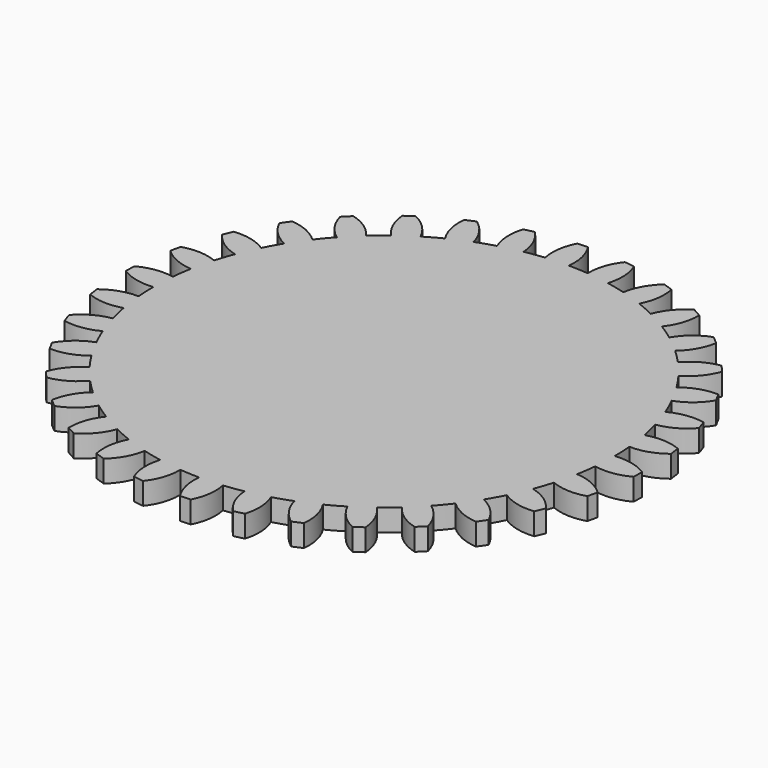
from build123d import *

# Parameters (mm, degrees)
F1_DEPTH = 6.35


with BuildPart() as f1:
    # F0 (on Top) → F1 (new body)
    with BuildSketch(Plane.XY):
        with BuildLine():
            ThreePointArc((66.113762, -6.381201), (66.344146, -3.194296), (66.421, 0))
            ThreePointArc((66.421, 0), (66.420879, 0.126818), (66.420516, 0.253635))
            ThreePointArc((66.420516, 0.253635), (66.35013, 3.067483), (66.160592, 5.875823))
            ThreePointArc((66.160592, 5.875823), (65.784061, 9.176416), (65.242975, 12.454054))
            ThreePointArc((65.242975, 12.454054), (64.656745, 15.207058), (63.954403, 17.932753))
            ThreePointArc((63.954403, 17.932753), (62.9778, 21.107959), (61.843663, 24.230365))
            ThreePointArc((61.843663, 24.230365), (60.761551, 26.828775), (59.570323, 29.379004))
            ThreePointArc((59.570323, 29.379004), (58.026906, 32.320696), (56.338339, 35.181541))
            ThreePointArc((56.338339, 35.181541), (54.797196, 37.53687), (53.157647, 39.824789))
            ThreePointArc((53.157647, 39.824789), (51.099975, 42.432791), (48.914481, 44.934651))
            ThreePointArc((48.914481, 44.934651), (46.966788, 46.966691), (44.934751, 48.914388))
            ThreePointArc((44.934751, 48.914388), (42.432896, 51.099888), (39.824898, 53.157565))
            ThreePointArc((39.824898, 53.157565), (37.536982, 54.797119), (35.181656, 56.338267))
            ThreePointArc((35.181656, 56.338267), (32.320816, 58.02684), (29.379127, 59.570262))
            ThreePointArc((29.379127, 59.570262), (26.828899, 60.761496), (24.230492, 61.843613))
            ThreePointArc((24.230492, 61.843613), (21.108089, 62.977757), (17.932884, 63.954366))
            ThreePointArc((17.932884, 63.954366), (15.207191, 64.656713), (12.454188, 65.242949))
            ThreePointArc((12.454188, 65.242949), (9.176551, 65.784042), (5.875959, 66.16058))
            ThreePointArc((5.875959, 66.16058), (3.06762, 66.350124), (0.253771, 66.420515))
            ThreePointArc((0.253771, 66.420515), (-3.067483, 66.35013), (-6.381065, 66.113775))
            ThreePointArc((-6.381065, 66.113775), (-9.176416, 65.784061), (-11.955287, 65.33621))
            ThreePointArc((-11.955287, 65.33621), (-15.207058, 64.656745), (-18.42079, 63.815545))
            ThreePointArc((-18.42079, 63.815545), (-21.107959, 62.9778), (-23.757223, 62.026959))
            ThreePointArc((-23.757223, 62.026959), (-26.828775, 60.761551), (-29.833216, 59.344153))
            ThreePointArc((-29.833216, 59.344153), (-32.320696, 58.026906), (-34.750135, 56.605454))
            ThreePointArc((-34.750135, 56.605454), (-37.53687, 54.797196), (-40.229708, 52.851867))
            ThreePointArc((-40.229708, 52.851867), (-42.432791, 51.099975), (-44.559672, 49.256318))
            ThreePointArc((-44.559672, 49.256318), (-46.966691, 46.966788), (-49.256226, 44.559774))
            ThreePointArc((-49.256226, 44.559774), (-51.099888, 42.432896), (-52.851784, 40.229817))
            ThreePointArc((-52.851784, 40.229817), (-54.797119, 37.536982), (-56.605382, 34.750251))
            ThreePointArc((-56.605382, 34.750251), (-58.02684, 32.320816), (-59.344091, 29.833338))
            ThreePointArc((-59.344091, 29.833338), (-60.761496, 26.828899), (-62.02691, 23.75735))
            ThreePointArc((-62.02691, 23.75735), (-62.977757, 21.108089), (-63.815507, 18.420921))
            ThreePointArc((-63.815507, 18.420921), (-64.656713, 15.207191), (-65.336186, 11.955421))
            ThreePointArc((-65.336186, 11.955421), (-65.784042, 9.176551), (-66.113762, 6.381201))
            ThreePointArc((-66.113762, 6.381201), (-66.350124, 3.06762), (-66.420516, -0.253635))
            ThreePointArc((-66.420516, -0.253635), (-66.35013, -3.067483), (-66.160592, -5.875823))
            ThreePointArc((-66.160592, -5.875823), (-65.784061, -9.176416), (-65.242975, -12.454054))
            ThreePointArc((-65.242975, -12.454054), (-64.656745, -15.207058), (-63.954403, -17.932753))
            ThreePointArc((-63.954403, -17.932753), (-62.9778, -21.107959), (-61.843663, -24.230365))
            ThreePointArc((-61.843663, -24.230365), (-60.761551, -26.828775), (-59.570323, -29.379004))
            ThreePointArc((-59.570323, -29.379004), (-58.026906, -32.320696), (-56.338339, -35.181541))
            ThreePointArc((-56.338339, -35.181541), (-54.797196, -37.53687), (-53.157647, -39.824789))
            ThreePointArc((-53.157647, -39.824789), (-51.099975, -42.432791), (-48.914481, -44.934651))
            ThreePointArc((-48.914481, -44.934651), (-46.966788, -46.966691), (-44.934751, -48.914388))
            ThreePointArc((-44.934751, -48.914388), (-42.432896, -51.099888), (-39.824898, -53.157565))
            ThreePointArc((-39.824898, -53.157565), (-37.536982, -54.797119), (-35.181656, -56.338267))
            ThreePointArc((-35.181656, -56.338267), (-32.320816, -58.02684), (-29.379127, -59.570262))
            ThreePointArc((-29.379127, -59.570262), (-26.828899, -60.761496), (-24.230492, -61.843613))
            ThreePointArc((-24.230492, -61.843613), (-21.108089, -62.977757), (-17.932884, -63.954366))
            ThreePointArc((-17.932884, -63.954366), (-15.207191, -64.656713), (-12.454188, -65.242949))
            ThreePointArc((-12.454188, -65.242949), (-9.176551, -65.784042), (-5.875959, -66.16058))
            ThreePointArc((-5.875959, -66.16058), (-3.06762, -66.350124), (-0.253771, -66.420515))
            ThreePointArc((-0.253771, -66.420515), (3.067483, -66.35013), (6.381065, -66.113775))
            ThreePointArc((6.381065, -66.113775), (9.176416, -65.784061), (11.955287, -65.33621))
            ThreePointArc((11.955287, -65.33621), (15.207058, -64.656745), (18.42079, -63.815545))
            ThreePointArc((18.42079, -63.815545), (21.107959, -62.9778), (23.757223, -62.026959))
            ThreePointArc((23.757223, -62.026959), (26.828775, -60.761551), (29.833216, -59.344153))
            ThreePointArc((29.833216, -59.344153), (32.320696, -58.026906), (34.750135, -56.605454))
            ThreePointArc((34.750135, -56.605454), (37.53687, -54.797196), (40.229708, -52.851867))
            ThreePointArc((40.229708, -52.851867), (42.432791, -51.099975), (44.559672, -49.256318))
            ThreePointArc((44.559672, -49.256318), (46.966691, -46.966788), (49.256226, -44.559774))
            ThreePointArc((49.256226, -44.559774), (51.099888, -42.432896), (52.851784, -40.229817))
            ThreePointArc((52.851784, -40.229817), (54.797119, -37.536982), (56.605382, -34.750251))
            ThreePointArc((56.605382, -34.750251), (58.02684, -32.320816), (59.344091, -29.833338))
            ThreePointArc((59.344091, -29.833338), (60.761496, -26.828899), (62.02691, -23.75735))
            ThreePointArc((62.02691, -23.75735), (62.977757, -21.108089), (63.815507, -18.420921))
            ThreePointArc((63.815507, -18.420921), (64.656713, -15.207191), (65.336186, -11.955421))
            ThreePointArc((65.336186, -11.955421), (65.784042, -9.176551), (66.113762, -6.381201))
        make_face()
        with BuildLine():
            ThreePointArc((66.420516, 0.253635), (66.420879, 0.126818), (66.421, 0))
            ThreePointArc((66.421, 0), (66.344146, -3.194296), (66.113762, -6.381201))
            ThreePointArc((66.113762, -6.381201), (71.195059, -6.568769), (76.035102, -5.010321))
            Line((76.035102, -5.010321), (76.173039, -2.026842))
            ThreePointArc((76.173039, -2.026842), (71.497443, -0.02845), (66.420516, 0.253635))
        make_face()
        with BuildLine():
            ThreePointArc((65.242975, 12.454054), (65.784061, 9.176416), (66.160592, 5.875823))
            ThreePointArc((66.160592, 5.875823), (71.189836, 6.625135), (75.661104, 9.046402))
            Line((75.661104, 9.046402), (75.24848, 12.004428))
            ThreePointArc((75.24848, 12.004428), (70.285291, 13.109655), (65.242975, 12.454054))
        make_face()
        with BuildLine():
            ThreePointArc((74.503617, -15.989091), (70.274836, -13.165587), (65.336186, -11.955421))
            ThreePointArc((65.336186, -11.955421), (64.656713, -15.207191), (63.815507, -18.420921))
            ThreePointArc((63.815507, -18.420921), (68.77582, -19.538981), (73.819815, -18.896424))
            Line((73.819815, -18.896424), (74.503617, -15.989091))
        make_face()
        with BuildLine():
            ThreePointArc((61.843663, 24.230365), (62.9778, 21.107959), (63.954403, 17.932753))
            ThreePointArc((63.954403, 17.932753), (68.760329, 19.593427), (72.710558, 22.795061))
            Line((72.710558, 22.795061), (71.761424, 25.626901))
            ThreePointArc((71.761424, 25.626901), (66.679658, 25.801326), (61.843663, 24.230365))
        make_face()
        with BuildLine():
            ThreePointArc((70.297064, -29.40685), (66.659103, -25.854385), (62.02691, -23.75735))
            ThreePointArc((62.02691, -23.75735), (60.761496, -26.828899), (59.344091, -29.833338))
            ThreePointArc((59.344091, -29.833338), (64.014503, -31.843817), (69.090684, -32.139032))
            Line((69.090684, -32.139032), (70.297064, -29.40685))
        make_face()
        with BuildLine():
            ThreePointArc((56.338339, 35.181541), (58.026906, 32.320696), (59.570323, 29.379004))
            ThreePointArc((59.570323, 29.379004), (63.989271, 31.894489), (67.283941, 35.767462))
            Line((67.283941, 35.767462), (65.830618, 38.376682))
            ThreePointArc((65.830618, 38.376682), (60.803329, 37.614365), (56.338339, 35.181541))
        make_face()
        with BuildLine():
            ThreePointArc((63.696628, -41.823194), (60.773374, -37.662743), (56.605382, -34.750251))
            ThreePointArc((56.605382, -34.750251), (54.797119, -37.536982), (52.851784, -40.229817))
            ThreePointArc((52.851784, -40.229817), (57.073248, -43.064249), (62.008752, -44.287184))
            Line((62.008752, -44.287184), (63.696628, -41.823194))
        make_face()
        with BuildLine():
            ThreePointArc((48.914481, 44.934651), (51.099975, 42.432791), (53.157647, 39.824789))
            ThreePointArc((53.157647, 39.824789), (57.039135, 43.109423), (59.56605, 47.521845))
            Line((59.56605, 47.521845), (57.65803, 49.81959))
            ThreePointArc((57.65803, 49.81959), (52.856415, 48.146491), (48.914481, 44.934651))
        make_face()
        with BuildLine():
            ThreePointArc((54.92708, -52.815299), (52.818081, -48.188541), (49.256226, -44.559774))
            ThreePointArc((49.256226, -44.559774), (46.966691, -46.966788), (44.559672, -49.256318))
            ThreePointArc((44.559672, -49.256318), (48.188433, -52.81818), (52.815186, -54.927189))
            Line((52.815186, -54.927189), (54.92708, -52.815299))
        make_face()
        with BuildLine():
            ThreePointArc((39.824898, 53.157565), (42.432896, 51.099888), (44.934751, 48.914388))
            ThreePointArc((44.934751, 48.914388), (48.1466, 52.856316), (49.819709, 57.657928))
            Line((49.819709, 57.657928), (47.521967, 59.565952))
            ThreePointArc((47.521967, 59.565952), (43.10954, 57.039046), (39.824898, 53.157565))
        make_face()
        with BuildLine():
            ThreePointArc((44.287057, -62.008843), (43.064132, -57.073337), (40.229708, -52.851867))
            ThreePointArc((40.229708, -52.851867), (37.53687, -54.797196), (34.750135, -56.605454))
            ThreePointArc((34.750135, -56.605454), (37.662618, -60.773452), (41.823063, -63.696714))
            Line((41.823063, -63.696714), (44.287057, -62.008843))
        make_face()
        with BuildLine():
            ThreePointArc((29.379127, 59.570262), (32.320816, 58.02684), (35.181656, 56.338267))
            ThreePointArc((35.181656, 56.338267), (37.61449, 60.803252), (38.376817, 65.830539))
            Line((38.376817, 65.830539), (35.7676, 67.283867))
            ThreePointArc((35.7676, 67.283867), (31.894621, 63.989205), (29.379127, 59.570262))
        make_face()
        with BuildLine():
            ThreePointArc((32.13889, -69.09075), (31.843685, -64.014568), (29.833216, -59.344153))
            ThreePointArc((29.833216, -59.344153), (26.828775, -60.761551), (23.757223, -62.026959))
            ThreePointArc((23.757223, -62.026959), (25.854248, -66.659156), (29.406705, -70.297124))
            Line((29.406705, -70.297124), (32.13889, -69.09075))
        make_face()
        with BuildLine():
            ThreePointArc((17.932884, 63.954366), (21.108089, 62.977757), (24.230492, 61.843613))
            ThreePointArc((24.230492, 61.843613), (25.801463, 66.679605), (25.627049, 71.761371))
            Line((25.627049, 71.761371), (22.795211, 72.710511))
            ThreePointArc((22.795211, 72.710511), (19.593568, 68.760289), (17.932884, 63.954366))
        make_face()
        with BuildLine():
            ThreePointArc((18.896273, -73.819854), (19.53884, -68.77586), (18.42079, -63.815545))
            ThreePointArc((18.42079, -63.815545), (15.207058, -64.656745), (11.955287, -65.33621))
            ThreePointArc((11.955287, -65.33621), (13.165442, -70.274863), (15.988938, -74.50365))
            Line((15.988938, -74.50365), (18.896273, -73.819854))
        make_face()
        with BuildLine():
            ThreePointArc((5.875959, 66.16058), (9.176551, 65.784042), (12.454188, 65.242949))
            ThreePointArc((12.454188, 65.242949), (13.109799, 70.285264), (12.004582, 75.248455))
            Line((12.004582, 75.248455), (9.046558, 75.661085))
            ThreePointArc((9.046558, 75.661085), (6.625281, 71.189823), (5.875959, 66.16058))
        make_face()
        with BuildLine():
            ThreePointArc((5.010165, -76.035112), (6.568623, -71.195073), (6.381065, -66.113775))
            ThreePointArc((6.381065, -66.113775), (3.067483, -66.35013), (-0.253771, -66.420515))
            ThreePointArc((-0.253771, -66.420515), (0.028304, -71.497443), (2.026686, -76.173043))
            Line((2.026686, -76.173043), (5.010165, -76.035112))
        make_face()
        with BuildLine():
            ThreePointArc((-6.381065, 66.113775), (-3.067483, 66.35013), (0.253771, 66.420515))
            ThreePointArc((0.253771, 66.420515), (-0.028304, 71.497443), (-2.026686, 76.173043))
            Line((-2.026686, 76.173043), (-5.010165, 76.035112))
            ThreePointArc((-5.010165, 76.035112), (-6.568623, 71.195073), (-6.381065, 66.113775))
        make_face()
        with BuildLine():
            ThreePointArc((-9.046558, -75.661085), (-6.625281, -71.189823), (-5.875959, -66.16058))
            ThreePointArc((-5.875959, -66.16058), (-9.176551, -65.784042), (-12.454188, -65.242949))
            ThreePointArc((-12.454188, -65.242949), (-13.109799, -70.285264), (-12.004582, -75.248455))
            Line((-12.004582, -75.248455), (-9.046558, -75.661085))
        make_face()
        with BuildLine():
            ThreePointArc((-18.42079, 63.815545), (-15.207058, 64.656745), (-11.955287, 65.33621))
            ThreePointArc((-11.955287, 65.33621), (-13.165442, 70.274863), (-15.988938, 74.50365))
            Line((-15.988938, 74.50365), (-18.896273, 73.819854))
            ThreePointArc((-18.896273, 73.819854), (-19.53884, 68.77586), (-18.42079, 63.815545))
        make_face()
        with BuildLine():
            ThreePointArc((-22.795211, -72.710511), (-19.593568, -68.760289), (-17.932884, -63.954366))
            ThreePointArc((-17.932884, -63.954366), (-21.108089, -62.977757), (-24.230492, -61.843613))
            ThreePointArc((-24.230492, -61.843613), (-25.801463, -66.679605), (-25.627049, -71.761371))
            Line((-25.627049, -71.761371), (-22.795211, -72.710511))
        make_face()
        with BuildLine():
            ThreePointArc((-29.833216, 59.344153), (-26.828775, 60.761551), (-23.757223, 62.026959))
            ThreePointArc((-23.757223, 62.026959), (-25.854248, 66.659156), (-29.406705, 70.297124))
            Line((-29.406705, 70.297124), (-32.13889, 69.09075))
            ThreePointArc((-32.13889, 69.09075), (-31.843685, 64.014568), (-29.833216, 59.344153))
        make_face()
        with BuildLine():
            ThreePointArc((-35.7676, -67.283867), (-31.894621, -63.989205), (-29.379127, -59.570262))
            ThreePointArc((-29.379127, -59.570262), (-32.320816, -58.02684), (-35.181656, -56.338267))
            ThreePointArc((-35.181656, -56.338267), (-37.61449, -60.803252), (-38.376817, -65.830539))
            Line((-38.376817, -65.830539), (-35.7676, -67.283867))
        make_face()
        with BuildLine():
            ThreePointArc((-40.229708, 52.851867), (-37.53687, 54.797196), (-34.750135, 56.605454))
            ThreePointArc((-34.750135, 56.605454), (-37.662618, 60.773452), (-41.823063, 63.696714))
            Line((-41.823063, 63.696714), (-44.287057, 62.008843))
            ThreePointArc((-44.287057, 62.008843), (-43.064132, 57.073337), (-40.229708, 52.851867))
        make_face()
        with BuildLine():
            ThreePointArc((-47.521967, -59.565952), (-43.10954, -57.039046), (-39.824898, -53.157565))
            ThreePointArc((-39.824898, -53.157565), (-42.432896, -51.099888), (-44.934751, -48.914388))
            ThreePointArc((-44.934751, -48.914388), (-48.1466, -52.856316), (-49.819709, -57.657928))
            Line((-49.819709, -57.657928), (-47.521967, -59.565952))
        make_face()
        with BuildLine():
            ThreePointArc((-49.256226, 44.559774), (-46.966691, 46.966788), (-44.559672, 49.256318))
            ThreePointArc((-44.559672, 49.256318), (-48.188433, 52.81818), (-52.815186, 54.927189))
            Line((-52.815186, 54.927189), (-54.92708, 52.815299))
            ThreePointArc((-54.92708, 52.815299), (-52.818081, 48.188541), (-49.256226, 44.559774))
        make_face()
        with BuildLine():
            ThreePointArc((-57.65803, -49.81959), (-52.856415, -48.146491), (-48.914481, -44.934651))
            ThreePointArc((-48.914481, -44.934651), (-51.099975, -42.432791), (-53.157647, -39.824789))
            ThreePointArc((-53.157647, -39.824789), (-57.039135, -43.109423), (-59.56605, -47.521845))
            Line((-59.56605, -47.521845), (-57.65803, -49.81959))
        make_face()
        with BuildLine():
            ThreePointArc((-56.605382, 34.750251), (-54.797119, 37.536982), (-52.851784, 40.229817))
            ThreePointArc((-52.851784, 40.229817), (-57.073248, 43.064249), (-62.008752, 44.287184))
            Line((-62.008752, 44.287184), (-63.696628, 41.823194))
            ThreePointArc((-63.696628, 41.823194), (-60.773374, 37.662743), (-56.605382, 34.750251))
        make_face()
        with BuildLine():
            ThreePointArc((-65.830618, -38.376682), (-60.803329, -37.614365), (-56.338339, -35.181541))
            ThreePointArc((-56.338339, -35.181541), (-58.026906, -32.320696), (-59.570323, -29.379004))
            ThreePointArc((-59.570323, -29.379004), (-63.989271, -31.894489), (-67.283941, -35.767462))
            Line((-67.283941, -35.767462), (-65.830618, -38.376682))
        make_face()
        with BuildLine():
            ThreePointArc((-62.02691, 23.75735), (-60.761496, 26.828899), (-59.344091, 29.833338))
            ThreePointArc((-59.344091, 29.833338), (-64.014503, 31.843817), (-69.090684, 32.139032))
            Line((-69.090684, 32.139032), (-70.297064, 29.40685))
            ThreePointArc((-70.297064, 29.40685), (-66.659103, 25.854385), (-62.02691, 23.75735))
        make_face()
        with BuildLine():
            ThreePointArc((-71.761424, -25.626901), (-66.679658, -25.801326), (-61.843663, -24.230365))
            ThreePointArc((-61.843663, -24.230365), (-62.9778, -21.107959), (-63.954403, -17.932753))
            ThreePointArc((-63.954403, -17.932753), (-68.760329, -19.593427), (-72.710558, -22.795061))
            Line((-72.710558, -22.795061), (-71.761424, -25.626901))
        make_face()
        with BuildLine():
            ThreePointArc((-65.336186, 11.955421), (-64.656713, 15.207191), (-63.815507, 18.420921))
            ThreePointArc((-63.815507, 18.420921), (-68.77582, 19.538981), (-73.819815, 18.896424))
            Line((-73.819815, 18.896424), (-74.503617, 15.989091))
            ThreePointArc((-74.503617, 15.989091), (-70.274836, 13.165587), (-65.336186, 11.955421))
        make_face()
        with BuildLine():
            ThreePointArc((-75.24848, -12.004428), (-70.285291, -13.109655), (-65.242975, -12.454054))
            ThreePointArc((-65.242975, -12.454054), (-65.784061, -9.176416), (-66.160592, -5.875823))
            ThreePointArc((-66.160592, -5.875823), (-71.189836, -6.625135), (-75.661104, -9.046402))
            Line((-75.661104, -9.046402), (-75.24848, -12.004428))
        make_face()
        with BuildLine():
            ThreePointArc((-66.420516, -0.253635), (-66.350124, 3.06762), (-66.113762, 6.381201))
            ThreePointArc((-66.113762, 6.381201), (-71.195059, 6.568769), (-76.035102, 5.010321))
            Line((-76.035102, 5.010321), (-76.173039, 2.026842))
            ThreePointArc((-76.173039, 2.026842), (-71.497443, 0.02845), (-66.420516, -0.253635))
        make_face()
    extrude(amount=F1_DEPTH)


solid = f1.part
